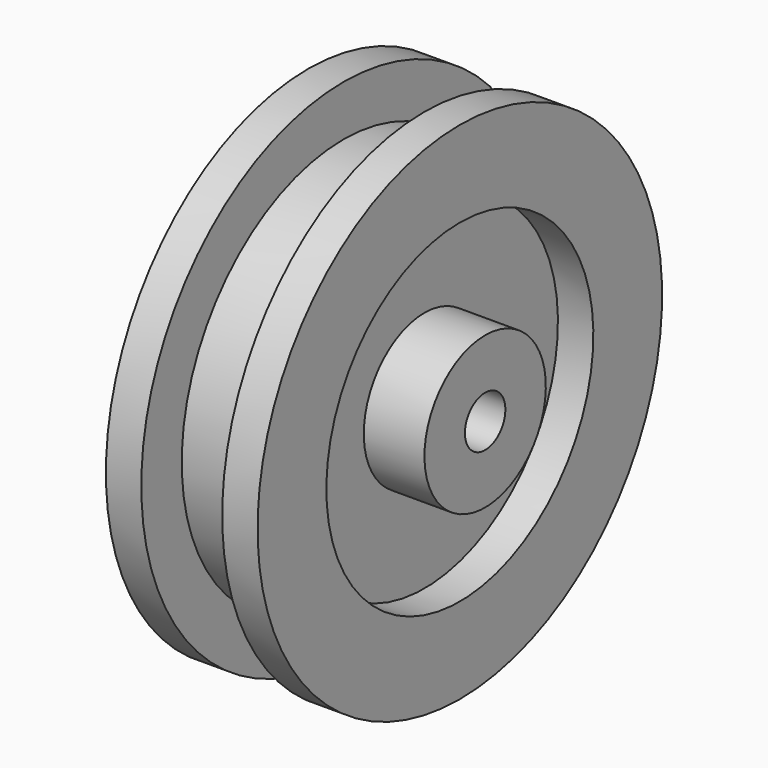
from build123d import *


with BuildPart() as f1:
    # F0 (on Front) → F1 (revolve)
    with BuildSketch(Plane.XZ):
        Polygon((-50, 12.5), (0, 12.5), (50, 12.5), (50, 37.5), (20, 37.5), (20, 82.5), (37.5, 82.5), (37.5, 125), (20, 125), (20, 100), (0, 100), (-20, 100), (-20, 125), (-37.5, 125), (-37.5, 82.5), (-20, 82.5), (-20, 37.5), (-50, 37.5), align=None)
    revolve(axis=Axis((56.406519, 0, 0), (1, 0, 0)))


solid = f1.part
